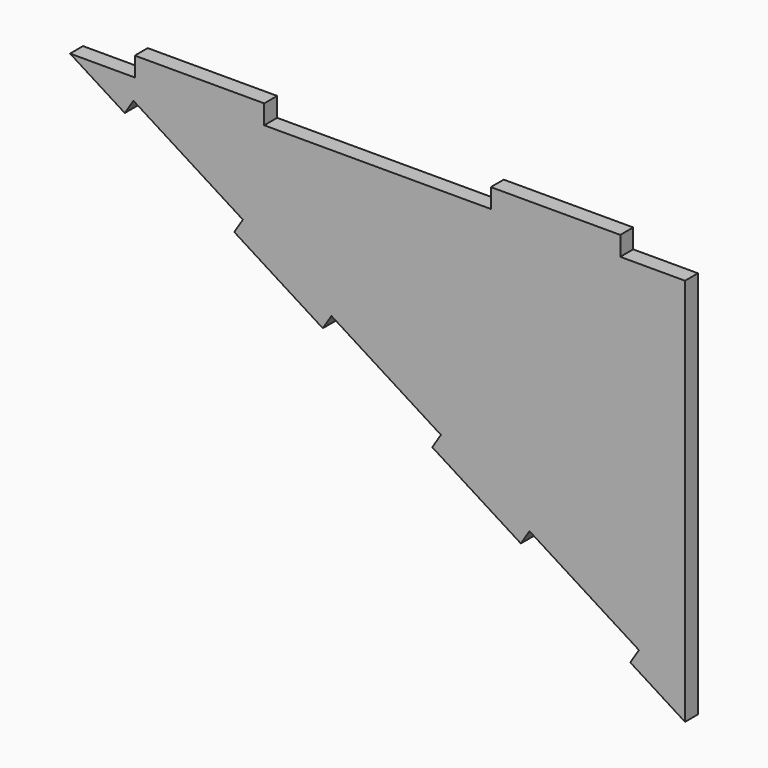
from build123d import *

# Parameters (mm, degrees)
F0_W     = 25.4
F0_H     = 3.785962
F1_DEPTH = 3.175


with BuildPart() as f1:
    # F0 (on Front) → F1 (new body)
    with BuildSketch(Plane.XZ):
        with Locations((32.3196, 1.892981)):
            Rectangle(F0_W, F0_H)
        Polygon((-50.2304, 0), (-62.9304, 0), (-52.192691, -6.781711), (-50.497263, -4.097284), (-29.021845, -17.660706), (-30.717273, -20.345133), (-13.343109, -31.318289), (-11.647681, -28.633862), (-0.909972, -35.415573), (9.827737, -42.197284), (8.132309, -44.881711), (25.506473, -55.854867), (27.201901, -53.17044), (48.677319, -66.733862), (46.981891, -69.418289), (57.7196, -76.2), (57.7196, 0), (45.0196, 0), (19.6196, 0), (-24.8304, 0), align=None)
        with Locations((-37.5304, 1.892981)):
            Rectangle(F0_W, F0_H)
    extrude(amount=F1_DEPTH)


solid = f1.part
